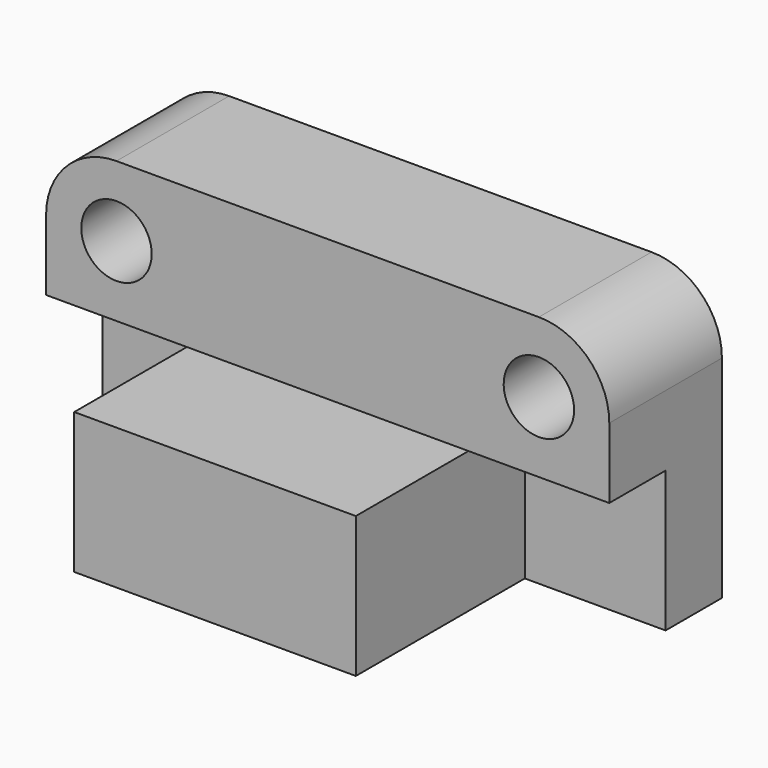
from build123d import *

# Parameters (mm, degrees)
F0_W      = 203.2
F0_H      = 101.6
F1_DEPTH  = 101.6
F2_W      = 50.8
F2_H      = 50.8
F3_DEPTH  = 76.2
F4_W      = 50.8
F4_H      = 50.8
F5_DEPTH  = 76.2
F7_DEPTH  = 101.6
F9_DEPTH  = 101.6
F11_DEPTH = 101.6
F13_DEPTH = 101.6
F14_W     = 203.2
F14_H     = 50.8
F15_DEPTH = 50.8


with BuildPart() as f1:
    # F0 (on Front) → F1 (new body)
    with BuildSketch(Plane.XZ):
        with Locations((-3.634136, -9.485549)):
            Rectangle(F0_W, F0_H)
    extrude(amount=F1_DEPTH)

    # F2 (on face) → F3 (cut)
    with BuildSketch(Plane.XZ.offset(101.6)):
        with Locations((72.565864, -34.885549)):
            Rectangle(F2_W, F2_H)
    extrude(amount=-F3_DEPTH, mode=Mode.SUBTRACT)

    # F4 (on face) → F5 (cut)
    with BuildSketch(Plane.XZ.offset(101.6)):
        with Locations((-79.834136, -34.885549)):
            Rectangle(F4_W, F4_H)
    extrude(amount=-F5_DEPTH, mode=Mode.SUBTRACT)

    # F6 (on face) → F7 (cut)
    with BuildSketch(Plane.XZ.offset(101.6)):
        with BuildLine():
            Line((97.965864, 15.914451), (97.965864, 41.314451))
            Line((97.965864, 41.314451), (72.565864, 41.314451))
            ThreePointArc((72.565864, 41.314451), (90.526376, 33.874963), (97.965864, 15.914451))
        make_face()
    extrude(amount=-F7_DEPTH, mode=Mode.SUBTRACT)

    # F8 (on face) → F9 (cut)
    with BuildSketch(Plane.XZ.offset(101.6)):
        with BuildLine():
            Line((-79.834136, 41.314451), (-105.234136, 41.314451))
            Line((-105.234136, 41.314451), (-105.234136, 15.914451))
            ThreePointArc((-105.234136, 15.914451), (-97.794648, 33.874963), (-79.834136, 41.314451))
        make_face()
    extrude(amount=-F9_DEPTH, mode=Mode.SUBTRACT)

    # F10 (on face) → F11 (cut)
    with BuildSketch(Plane.XZ.offset(101.6)):
        with BuildLine():
            ThreePointArc((85.265864, 15.914451), (81.54612, 24.894707), (72.565864, 28.614451))
            ThreePointArc((72.565864, 28.614451), (63.585608, 6.934195), (85.265864, 15.914451))
        make_face()
    extrude(amount=-F11_DEPTH, mode=Mode.SUBTRACT)

    # F12 (on face) → F13 (cut)
    with BuildSketch(Plane.XZ.offset(101.6)):
        with BuildLine():
            ThreePointArc((-67.134136, 15.914451), (-70.85388, 24.894707), (-79.834136, 28.614451))
            ThreePointArc((-79.834136, 28.614451), (-88.814392, 6.934195), (-67.134136, 15.914451))
        make_face()
    extrude(amount=-F13_DEPTH, mode=Mode.SUBTRACT)

    # F14 (on face) → F15 (cut)
    with BuildSketch(Plane.XZ.offset(101.6)):
        with Locations((-3.634136, 15.914451)):
            Rectangle(F14_W, F14_H)
    extrude(amount=-F15_DEPTH, mode=Mode.SUBTRACT)


solid = f1.part
